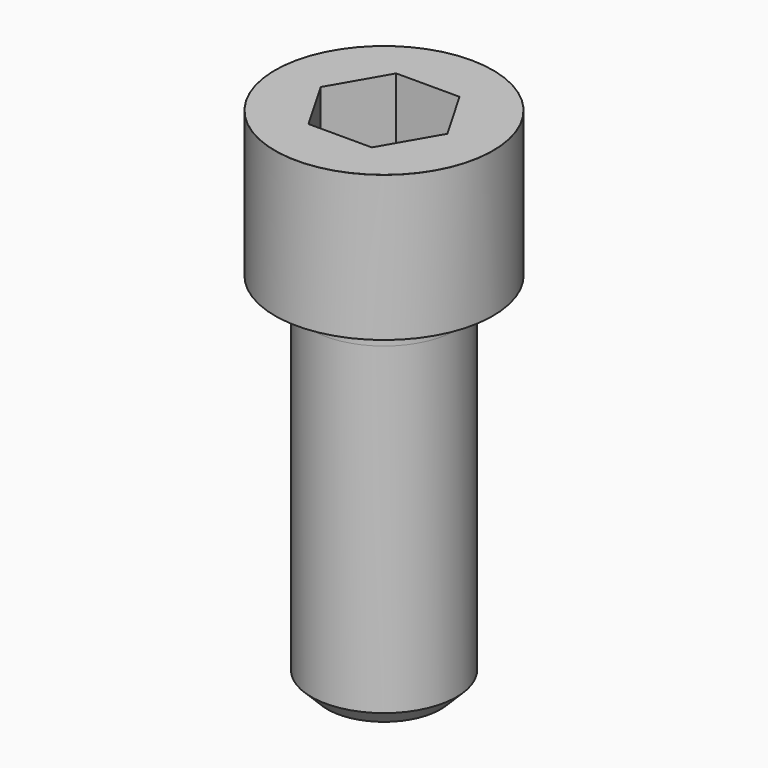
from build123d import *

# Parameters (mm, degrees)
POCKET_DEPTH = 27.15


with BuildPart() as part:
    # Sketch → Revolve (revolve)
    with BuildSketch(Plane.YZ):
        with BuildLine():
            Line((17.999, 0), (27, 0))
            Line((27, 0), (27, 35.97229))
            ThreePointArc((27, 35.97229), (26.991884, 35.991884), (26.97229, 36))
            Line((26.97229, 36), (0, 36))
            Line((0, -90), (0, 36))
            Line((14, -90), (0, -90))
            Line((18, -86), (14, -90))
            Line((18, -6), (18, -86))
            Line((17.999, 0), (18, -6))
        make_face()
    revolve(axis=Axis((0, 0, 0), (0, 0, 1)))

    # Sketch001 → Pocket (cut)
    with BuildSketch(Plane.XY.offset(36)):
        Polygon((15.67506, 0), (7.83753, 13.575), (-7.83753, 13.575), (-15.67506, 0), (-7.83753, -13.575), (7.83753, -13.575), align=None)
    extrude(amount=-POCKET_DEPTH, mode=Mode.SUBTRACT)


solid = part.part
